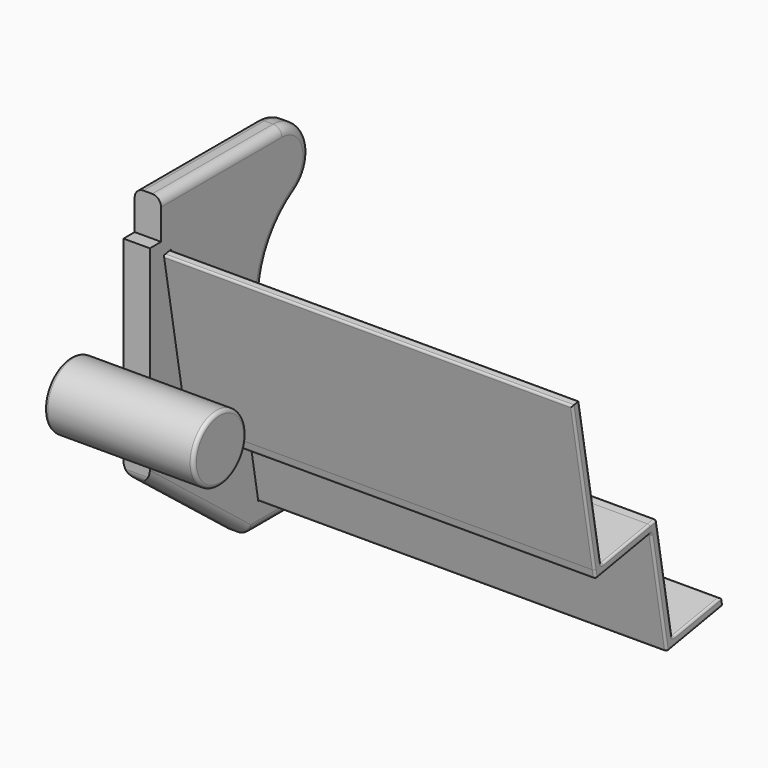
from build123d import *

# Parameters (mm, degrees)
F1_DEPTH = 304.8
F2_DEPTH = 9.525
F3_R     = 23.876
F4_DEPTH = 107.95
F5_R     = 2.54
F6_R     = 6.35
F7_R     = 1.524


with BuildPart() as f1:
    # F0 (on Right) → F1 (new body)
    with BuildSketch(Plane.YZ):
        Polygon((-349.9992843638, 2.3384337475), (-356.2528135955, 1.2357678193), (-336.4048268881, -111.32775835), (-330.1512976565, -110.2250924218), align=None)
        Polygon((-330.1512976565, -110.2250924218), (-336.4048268881, -111.32775835), (-335.30216096, -117.5812875816), (-285.2739271069, -108.7599601561), (-286.3765930351, -102.5064309245), align=None)
        Polygon((-280.1230638035, -101.4037649963), (-286.3765930351, -102.5064309245), (-285.2739271069, -108.7599601561), (-272.0419359687, -183.8023109356), (-265.7884067371, -182.6996450075), align=None)
        Polygon((-265.7884067371, -182.6996450075), (-272.0419359687, -183.8023109356), (-270.9392700405, -190.0558401673), (-220.9110361875, -181.2345127418), (-222.0137021157, -174.9809835102), align=None)
    extrude(amount=F1_DEPTH)

    # F7
    f7_edges = [f1.edges().sort_by_distance(p)[0] for p in [
        (152.4, -330.151298, -110.225092),
        (152.4, -349.999284, 2.338434),
        (0, -340.075291, -53.943329),
        (304.8, -340.075291, -53.943329),
        (152.4, -280.123064, -101.403765),
        (0, -305.137181, -105.814429),
        (304.8, -305.137181, -105.814429),
        (152.4, -265.788407, -182.699645),
        (0, -272.955735, -142.051705),
        (304.8, -272.955735, -142.051705),
        (152.4, -222.013702, -174.980984),
        (0, -243.901054, -178.840314),
        (304.8, -243.901054, -178.840314),
        (152.4, -270.93927, -190.05584),
        (152.4, -220.911036, -181.234513),
        (0, -245.925153, -185.645176),
        (304.8, -245.925153, -185.645176),
        (152.4, -285.273927, -108.75996),
        (0, -278.106599, -149.4079),
        (304.8, -278.106599, -149.4079),
        (152.4, -335.302161, -117.581288),
        (0, -310.288044, -113.170624),
        (304.8, -310.288044, -113.170624),
        (152.4, -356.252814, 1.235768),
        (0, -345.777487, -58.17276),
        (304.8, -345.777487, -58.17276),
    ]]
    fillet(f7_edges, radius=F7_R)


with BuildPart() as f2:
    # F0 (on Right) → F2 (new body, symmetric)
    with BuildSketch(Plane.YZ):
        with BuildLine():
            Line((-249.6433147939, 39.3357678193), (-358.7928135955, 39.3357678193))
            Line((-358.7928135955, 39.3357678193), (-358.7928135955, 10.8877678193))
            Line((-358.7928135955, 10.8877678193), (-368.9528135955, 10.8877678193))
            Line((-368.9528135955, 10.8877678193), (-368.9528135955, -138.4642321807))
            Line((-368.9528135955, -138.4642321807), (-280.0528135955, -208.3142321807))
            Line((-280.0528135955, -208.3142321807), (-241.9528135955, -208.3142321807))
            ThreePointArc((-241.9528135955, -208.3142321807), (-210.4252704945, -188.5807415734), (-214.3963280813, -151.5992958583))
            Line((-214.3963280813, -151.5992958583), (-253.7739830052, -101.50868204))
            ThreePointArc((-253.7739830052, -101.50868204), (-266.3070609832, -50.7874302208), (-236.5603144515, -7.8356607521))
            ThreePointArc((-236.5603144515, -7.8356607521), (-225.1672623577, 20.7242033639), (-249.6433147939, 39.3357678193))
        make_face()
        Polygon((-336.4048268881, -111.32775835), (-356.2528135955, 1.2357678193), (-349.9992843638, 2.3384337475), (-330.1512976565, -110.2250924218), (-286.3765930351, -102.5064309245), (-280.1230638035, -101.4037649963), (-265.7884067371, -182.6996450075), (-222.0137021157, -174.9809835102), (-220.9110361875, -181.2345127418), (-270.9392700405, -190.0558401673), (-272.0419359687, -183.8023109356), (-285.2739271069, -108.7599601561), (-335.30216096, -117.5812875816), align=None, mode=Mode.SUBTRACT)
    extrude(amount=F2_DEPTH, both=True)

    # F6
    f6_edges = [f2.edges().sort_by_distance(p)[0] for p in [
        (0, -368.952814, -138.464232),
        (-9.525, -324.502814, -173.389232),
        (0, -280.052814, -208.314232),
        (9.525, -324.502814, -173.389232),
        (-9.525, -261.002814, -208.314232),
        (0, -241.952814, -208.314232),
        (9.525, -261.002814, -208.314232),
    ]]
    fillet(f6_edges, radius=F6_R)


with BuildPart() as f4:
    # F3 (on Right) → F4 (new body)
    with BuildSketch(Plane.YZ):
        with Locations((-428.6035299301, -60.6200098991)):
            Circle(F3_R)
    extrude(amount=F4_DEPTH)

    # F5
    f5_edges = [f4.edges().sort_by_distance(p)[0] for p in [
        (107.95, -452.47953, -60.62001),
        (0, -452.47953, -60.62001),
    ]]
    fillet(f5_edges, radius=F5_R)


solid = Compound([f1.part, f2.part, f4.part])
